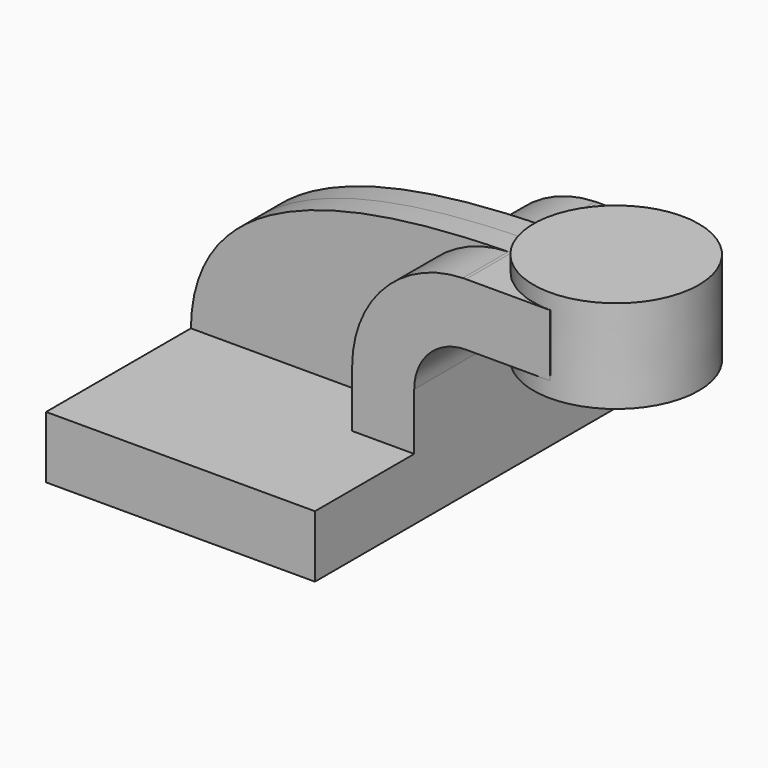
from build123d import *

# Parameters (mm, degrees)
F1_DEPTH = 63.5
F2_DEPTH = 25.4
F3_DEPTH = 7.9375


with BuildPart() as f1:
    # F0 (on Front) → F1 (new body, symmetric)
    with BuildSketch(Plane.XZ):
        Polygon((41.275, -9.525), (41.275, 9.525), (22.225, 9.525), (-41.275, 9.525), (-41.275, -9.525), align=None)
    extrude(amount=F1_DEPTH, both=True)

    # F0 (on Front) → F2 (join, symmetric)
    with BuildSketch(Plane.XZ):
        with BuildLine():
            Line((22.225, 9.525), (41.275, 9.525))
            Line((41.275, 9.525), (41.275, 27.0002))
            ThreePointArc((41.275, 27.0002), (45.9246798487, 38.2255201513), (57.15, 42.8752))
            Line((57.15, 42.8752), (57.532105205, 42.8752))
            Line((57.532105205, 42.8752), (57.532105205, 61.9252))
            Line((57.532105205, 61.9252), (57.15, 61.9252))
            add(Edge.make_bspline(
                [(56.1791029201, 61.9117021713), (56.5034675496, 61.9166015255), (56.827109874, 61.9210963149), (57.15, 61.9252)],
                knots=[110.6558561405, 110.6558561405, 110.6558561405, 110.6558561405, 111.5045361635, 111.5045361635, 111.5045361635, 111.5045361635], degree=3))
            ThreePointArc((56.1791029201, 61.9117021713), (32.1133847583, 51.3502209906), (22.225, 27.0002))
            Line((22.225, 27.0002), (22.225, 9.525))
        make_face()
        Polygon((57.532105205, 61.9252), (57.532105205, 42.8752), (82.9354883984, 42.8752), (82.9489851804, 61.9252), align=None)
    extrude(amount=F2_DEPTH, both=True)

    # F0 (on Front) → F3 (join, symmetric)
    with BuildSketch(Plane.XZ):
        with BuildLine():
            Line((-41.275, 9.525), (22.225, 9.525))
            Line((22.225, 9.525), (22.225, 27.0002))
            ThreePointArc((22.225, 27.0002), (32.1133847583, 51.3502209906), (56.1791029201, 61.9117021713))
            add(Edge.make_bspline(
                [(-41.275, 9.525), (-40.6855292219, 53.7562988264), (13.8865488249, 61.2728957708), (56.1791029201, 61.9117021713)],
                knots=[0, 0, 0, 0, 110.6558561405, 110.6558561405, 110.6558561405, 110.6558561405], degree=3))
        make_face()
    extrude(amount=F3_DEPTH, both=True)


with BuildPart() as f4:
    # F0 (on Front) → F4 (revolve)
    with BuildSketch(Plane.XZ):
        Polygon((82.9489851804, 61.9252), (82.9354883984, 42.8752), (82.932105205, 38.1), (108.332105205, 38.1), (108.332105205, 66.675), (82.952350378, 66.675), align=None)
    revolve(axis=Axis((82.9422277915, 0, 52.3875), (0.0007084923, 0, 0.999999749)))


solid = Compound([f1.part, f4.part])
